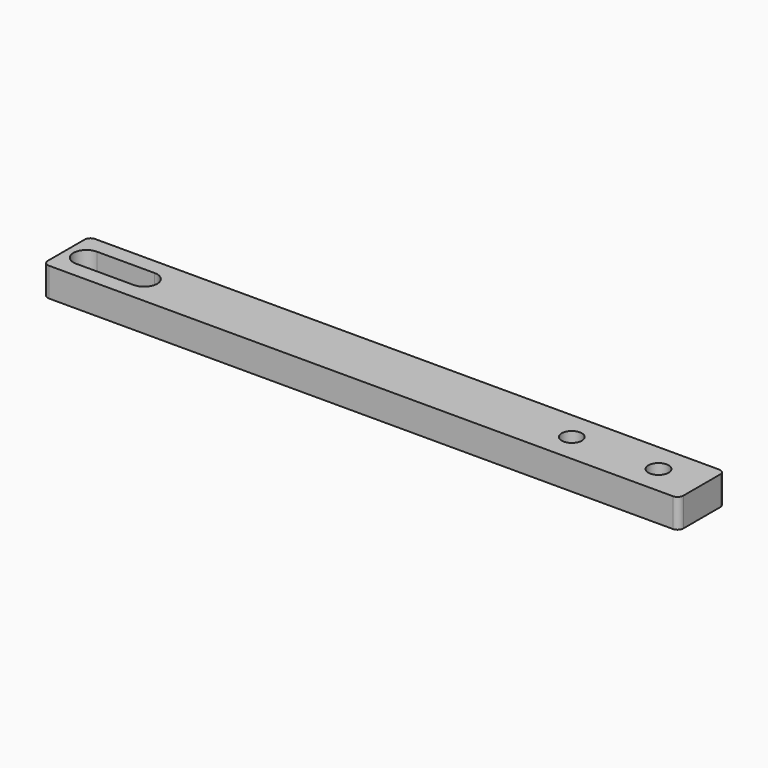
from build123d import *

# Parameters (mm, degrees)
F0_R     = 3.5
F1_DEPTH = 10


with BuildPart() as f1:
    # F0 (on Top) → F1 (new body)
    with BuildSketch(Plane.XY):
        with BuildLine():
            ThreePointArc((0, 2), (0.585786, 0.585786), (2, 0))
            Line((2, 0), (218, 0))
            ThreePointArc((218, 0), (219.414214, 0.585786), (220, 2))
            Line((220, 2), (220, 18))
            ThreePointArc((220, 18), (219.414214, 19.414214), (218, 20))
            Line((218, 20), (2, 20))
            ThreePointArc((2, 20), (0.585786, 19.414214), (0, 18))
            Line((0, 18), (0, 2))
        make_face()
        with BuildLine():
            ThreePointArc((7, 5.5), (2.5, 10), (7, 14.5))
            Line((7, 14.5), (27, 14.5))
            ThreePointArc((27, 14.5), (31.5, 10), (27, 5.5))
            Line((27, 5.5), (7, 5.5))
        make_face(mode=Mode.SUBTRACT)
        with Locations((175, 10)):
            Circle(F0_R, mode=Mode.SUBTRACT)
        with Locations((205, 10)):
            Circle(F0_R, mode=Mode.SUBTRACT)
    extrude(amount=F1_DEPTH)


solid = f1.part
